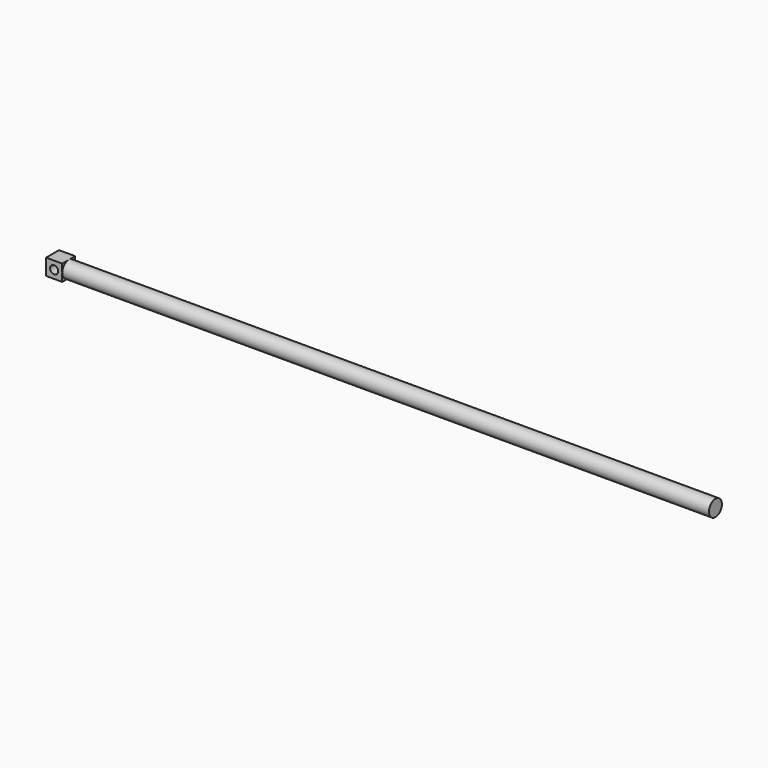
from build123d import *

# Parameters (mm, degrees)
F0_R     = 5
F1_DEPTH = 400
F2_W     = 10
F2_H     = 10
F3_DEPTH = 10
F4_R     = 2.5
F5_DEPTH = 25


with BuildPart() as f1:
    # F0 (on Right) → F1 (new body)
    with BuildSketch(Plane.YZ):
        Circle(F0_R)
    extrude(amount=F1_DEPTH)

    # F2 (on face) → F3 (join)
    with BuildSketch(Plane(origin=(0, 0, 0), x_dir=(0, -1, 0), z_dir=(-1, 0, 0))):
        Rectangle(F2_W, F2_H)
    extrude(amount=F3_DEPTH)

    # F4 (on face) → F5 (cut)
    with BuildSketch(Plane.XZ.offset(5)):
        with Locations((-5, 0)):
            Circle(F4_R)
    extrude(amount=-F5_DEPTH, mode=Mode.SUBTRACT)


solid = f1.part
